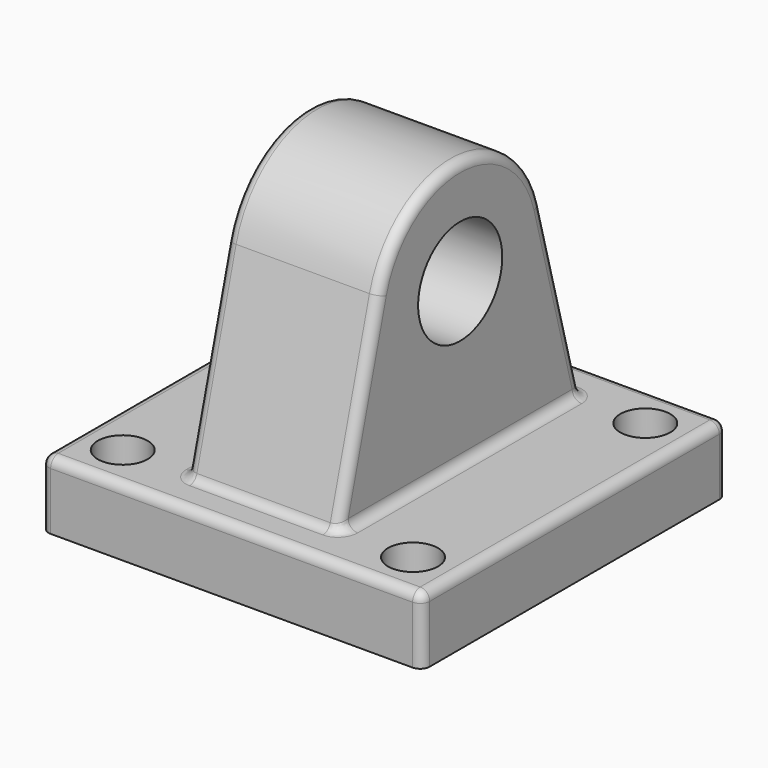
from build123d import *

# Parameters (mm, degrees)
F0_W     = 127
F0_H     = 127
F0_R     = 8.3312
F1_DEPTH = 22.352
F2_R     = 17.526
F3_DEPTH = 25.4
F4_R     = 3.175


with BuildPart() as f1:
    # F0 (on Top) → F1 (new body)
    with BuildSketch(Plane.XY):
        Rectangle(F0_W, F0_H)
        with Locations((-48.387, -48.387)):
            Circle(F0_R, mode=Mode.SUBTRACT)
        with Locations((48.387, -48.387)):
            Circle(F0_R, mode=Mode.SUBTRACT)
        with Locations((-48.387, 48.387)):
            Circle(F0_R, mode=Mode.SUBTRACT)
        with Locations((48.387, 48.387)):
            Circle(F0_R, mode=Mode.SUBTRACT)
    extrude(amount=-F1_DEPTH)

    # F2 (on Right) → F3 (join, symmetric)
    with BuildSketch(Plane.YZ):
        with BuildLine():
            Line((50.8, 0), (33.846452, 62.961747))
            ThreePointArc((33.846452, 62.961747), (0, 88.9), (-33.846452, 62.961747))
            Line((-33.846452, 62.961747), (-50.8, 0))
            Line((-50.8, 0), (50.8, 0))
        make_face()
        with Locations((0, 53.848)):
            Circle(F2_R, mode=Mode.SUBTRACT)
    extrude(amount=F3_DEPTH, both=True)

    # F4
    f4_edges = [f1.edges().sort_by_distance(p)[0] for p in [
        (25.4, 0, 0),
        (0, -50.8, 0),
        (-25.4, 0, 0),
        (0, 50.8, 0),
        (63.5, 0, 0),
        (0, -63.5, 0),
        (-63.5, 0, 0),
        (0, 63.5, 0),
        (25.4, -42.323226, 31.480874),
        (-25.4, -42.323226, 31.480874),
        (63.5, -63.5, -11.176),
        (63.5, 63.5, -11.176),
        (-63.5, -63.5, -11.176),
        (-63.5, 63.5, -11.176),
    ]]
    fillet(f4_edges, radius=F4_R)


solid = f1.part
